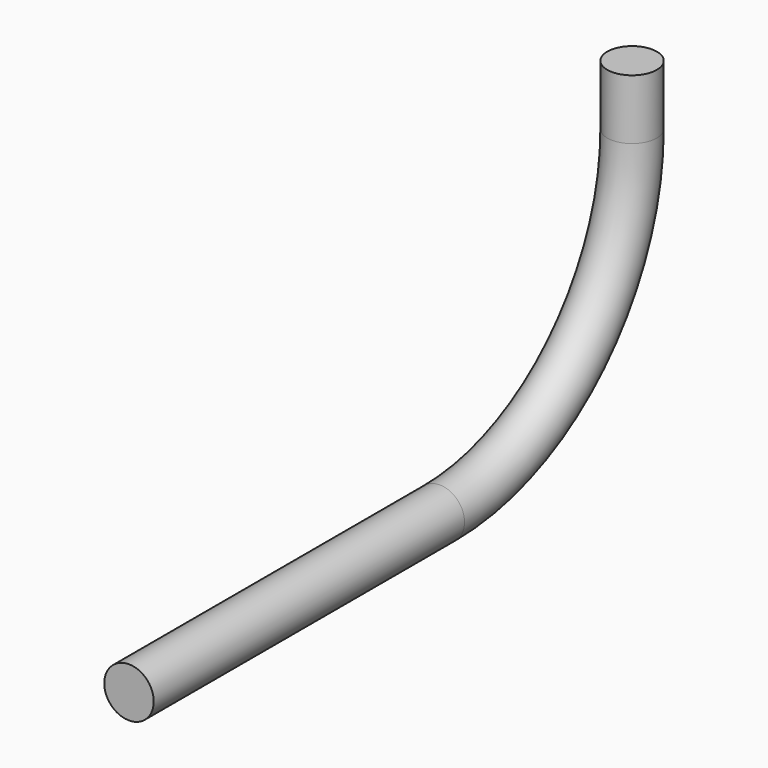
from build123d import *

# Parameters (mm, degrees)
F1_R = 10.3


with BuildPart() as f2:
    # F2: sweep along a path in F0
    with BuildLine(Plane.YZ) as f2_path:
        Line((-261.629, -125), (-100, -125))
        ThreePointArc((-100, -125), (-29.2893218813, -95.7106781187), (0, -25))
        Line((0, -25), (0, 0))
    # F1 (on Top) → F2 (sweep)
    with BuildSketch(Plane.XY):
        Circle(F1_R)
    sweep(path=f2_path.line)


solid = f2.part
